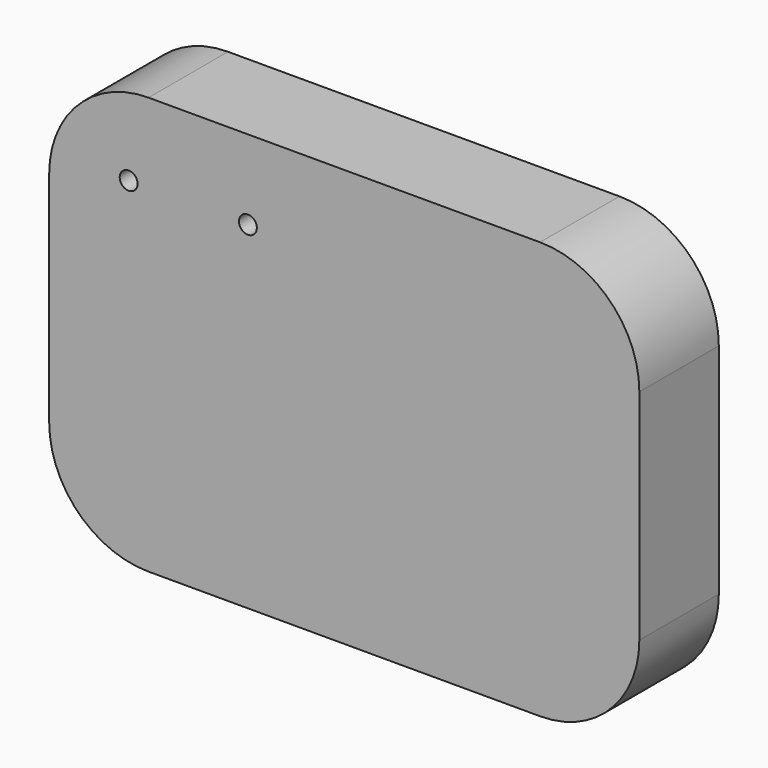
from build123d import *

# Parameters (mm, degrees)
F2_DEPTH = 9
F3_R     = 4.5
F4_DEPTH = 25
F6_DEPTH = 25
F7_DEPTH = 25
F8_R     = 4.5
F9_DEPTH = 25


with BuildPart() as f2:
    # F0 (on Front) → F2 (new body)
    with BuildSketch(Plane.XZ):
        with BuildLine():
            Line((89.0472261183, 101.7465810478), (-107.9527738817, 101.7465810478))
            ThreePointArc((-107.9527738817, 101.7465810478), (-143.308112941, 87.1019201071), (-157.9527738817, 51.7465810478))
            Line((-157.9527738817, 51.7465810478), (-157.9527738817, -58.2534189522))
            ThreePointArc((-157.9527738817, -58.2534189522), (-143.308112941, -93.6087580116), (-107.9527738817, -108.2534189522))
            Line((-107.9527738817, -108.2534189522), (89.0472261183, -108.2534189522))
            ThreePointArc((89.0472261183, -108.2534189522), (124.4025651777, -93.6087580116), (139.0472261183, -58.2534189522))
            Line((139.0472261183, -58.2534189522), (139.0472261183, 51.7465810478))
            ThreePointArc((139.0472261183, 51.7465810478), (124.4025651777, 87.1019201071), (89.0472261183, 101.7465810478))
        make_face()
    extrude(amount=F2_DEPTH)

    # F3 (on face) → F4 (join)
    with BuildSketch(Plane.XZ.offset(9)):
        with Locations((-117.9527738817, 61.7465810478)):
            Circle(F3_R)
        with Locations((-57.9527738817, 61.7465810478)):
            Circle(F3_R)
    extrude(amount=F4_DEPTH)

    # F5 (on face) → F6 (cut)
    with BuildSketch(Plane.XZ.offset(9)):
        with BuildLine():
            Line((138.772751035, 56.9784231484), (61.5566782653, 56.9784231484))
            Line((61.5566782653, 56.9784231484), (61.5566782653, 26.1754468083))
            Line((61.5566782653, 26.1754468083), (139.0472261183, 26.1754468083))
            Line((139.0472261183, 26.1754468083), (139.0472261183, 51.7465810478))
            ThreePointArc((139.0472261183, 51.7465810478), (138.9785601974, 54.3660995311), (138.772751035, 56.9784231484))
        make_face()
    extrude(amount=-F6_DEPTH, mode=Mode.SUBTRACT)

    # F1 (on face) → F7 (join)
    with BuildSketch(Plane.XZ):
        with BuildLine():
            ThreePointArc((139.0472261183, 51.7465810478), (124.4025651777, 87.1019201071), (89.0472261183, 101.7465810478))
            Line((89.0472261183, 101.7465810478), (-107.9527738817, 101.7465810478))
            ThreePointArc((-107.9527738817, 101.7465810478), (-143.308112941, 87.1019201071), (-157.9527738817, 51.7465810478))
            Line((-157.9527738817, 51.7465810478), (-157.9527738817, -58.2534189522))
            ThreePointArc((-157.9527738817, -58.2534189522), (-143.308112941, -93.6087580116), (-107.9527738817, -108.2534189522))
            Line((-107.9527738817, -108.2534189522), (89.0472261183, -108.2534189522))
            ThreePointArc((89.0472261183, -108.2534189522), (124.4025651777, -93.6087580116), (139.0472261183, -58.2534189522))
            Line((139.0472261183, -58.2534189522), (139.0472261183, 51.7465810478))
        make_face()
    extrude(amount=F7_DEPTH)

    # F8 (on face) → F9 (join)
    with BuildSketch(Plane.XZ.offset(25)):
        with BuildLine():
            Line((-107.9527738817, -108.2534189522), (89.0472261183, -108.2534189522))
            ThreePointArc((89.0472261183, -108.2534189522), (124.4025651777, -93.6087580116), (139.0472261183, -58.2534189522))
            Line((139.0472261183, -58.2534189522), (139.0472261183, 51.7465810478))
            ThreePointArc((139.0472261183, 51.7465810478), (124.4025651777, 87.1019201071), (89.0472261183, 101.7465810478))
            Line((89.0472261183, 101.7465810478), (-107.9527738817, 101.7465810478))
            ThreePointArc((-107.9527738817, 101.7465810478), (-143.308112941, 87.1019201071), (-157.9527738817, 51.7465810478))
            Line((-157.9527738817, 51.7465810478), (-157.9527738817, -58.2534189522))
            ThreePointArc((-157.9527738817, -58.2534189522), (-143.308112941, -93.6087580116), (-107.9527738817, -108.2534189522))
        make_face()
        with Locations((-117.9527738817, 61.7465810478)):
            Circle(F8_R, mode=Mode.SUBTRACT)
        with Locations((-57.9527738817, 61.7465810478)):
            Circle(F8_R, mode=Mode.SUBTRACT)
    extrude(amount=F9_DEPTH)


solid = f2.part
